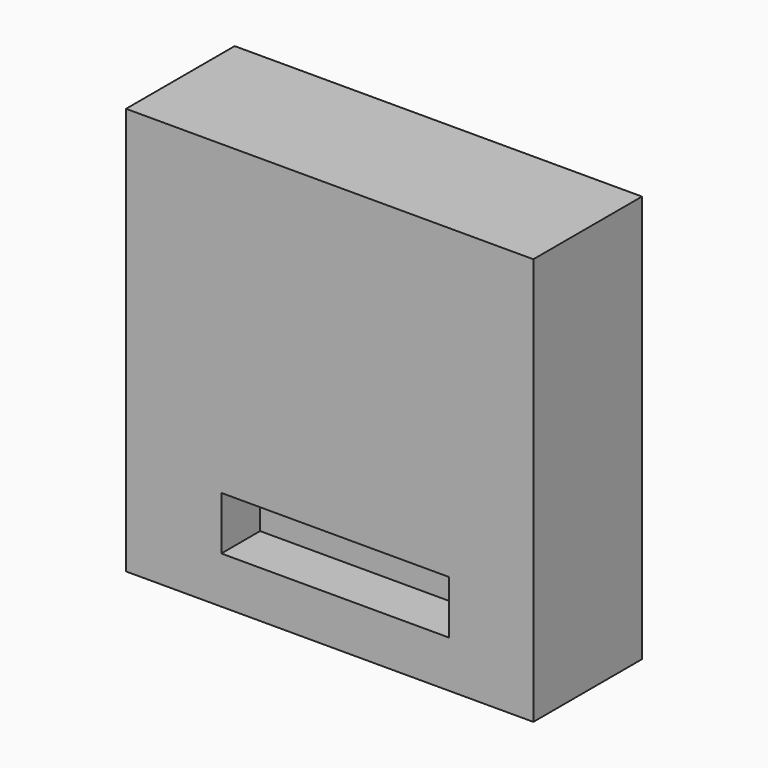
from build123d import *

# Parameters (mm, degrees)
SKETCH047_W     = 42
SKETCH047_H     = 42
PAD023_DEPTH    = 14
SKETCH048_R     = 7
PAD024_DEPTH    = 2.5
SKETCH049_R     = 3
HOLE_DEPTH      = 0.5
HOLE_TIPS_R     = 3
SKETCH050_W     = 23.5
SKETCH050_H     = 5.5
POCKET007_DEPTH = 5


with BuildPart() as part:
    # Sketch047 → Pad023 (new body)
    with BuildSketch(Plane.XZ):
        with Locations((8.147526, -9.378734)):
            Rectangle(SKETCH047_W, SKETCH047_H)
    extrude(amount=PAD023_DEPTH)

    # Sketch048 (on Face5 of Pad023) → Pad024 (join)
    with BuildSketch(Plane(origin=(0, 0, 0), x_dir=(1, 0, 0), z_dir=(0, 1, 0))):
        with Locations((8.142856, 9.219142)):
            Circle(SKETCH048_R)
    extrude(amount=PAD024_DEPTH)

    # Sketch049 (on Face8 of Pad024) → Hole (cut)
    with BuildSketch(Plane(origin=(0, 2.5, 0), x_dir=(1, 0, 0), z_dir=(0, 1, 0))):
        with Locations((8.27745, 9.219093)):
            Circle(SKETCH049_R)
    extrude(amount=-HOLE_DEPTH, mode=Mode.SUBTRACT)

    # Hole tips → Hole tip 1 section 0
    with BuildSketch(Plane(origin=(0, 2, 0), x_dir=(1, 0, 0), z_dir=(0, 1, 0)), mode=Mode.PRIVATE) as hole_tip_1_s0:
        with Locations((8.27745, 9.219093)):
            Circle(HOLE_TIPS_R)
    loft([hole_tip_1_s0.sketch, Vertex(8.27745, 0.197418, -9.219093)], mode=Mode.SUBTRACT)

    # Sketch050 (on Face5 of Hole) → Pocket007 (cut)
    with BuildSketch(Plane.XZ.offset(14)):
        with Locations((8.721823, -22.801634)):
            Rectangle(SKETCH050_W, SKETCH050_H)
    extrude(amount=-POCKET007_DEPTH, mode=Mode.SUBTRACT)


with BuildPart() as part_1:
    # Body006 placement: moved
    add(part.part.moved(Location((-10, 77, 136))))


solid = part_1.part
